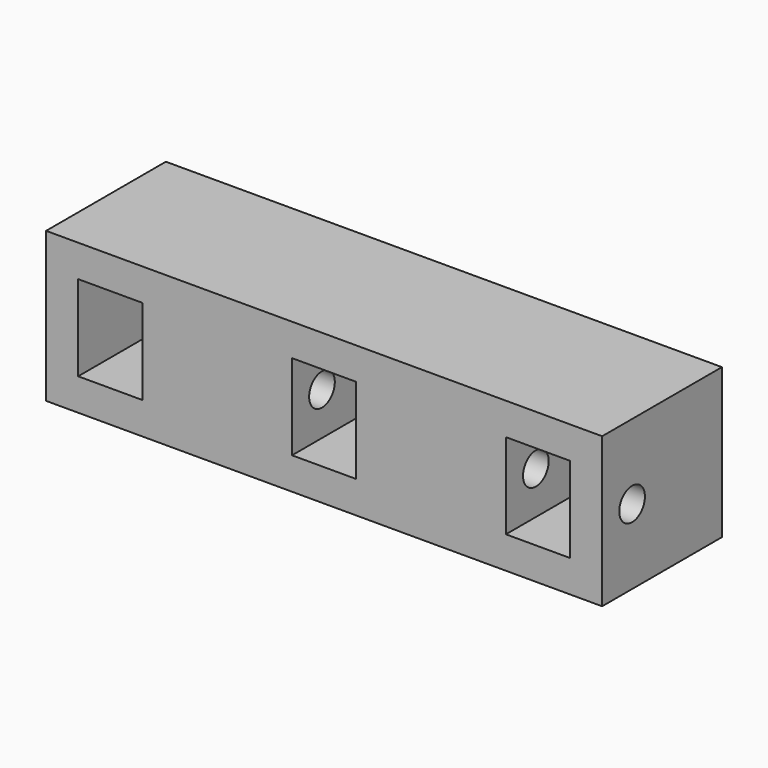
from build123d import *

# Parameters (mm, degrees)
SKETCH041_W      = 26
SKETCH041_H      = 7
EXTRUDE032_DEPTH = 7
SKETCH070_W      = 3
SKETCH070_H      = 4
POCKET012_DEPTH  = 4
SKETCH071_R      = 0.75
HOLE017_DEPTH    = 24


with BuildPart() as part:
    # Sketch041 → Extrude032 (new body)
    with BuildSketch(Plane.XY):
        with Locations((-134, -113.5)):
            Rectangle(SKETCH041_W, SKETCH041_H)
    extrude(amount=EXTRUDE032_DEPTH)

    # Sketch070 (on Face3 of BaseFeature013) → Pocket012 (cut)
    with BuildSketch(Plane.XZ.offset(117)):
        with Locations((-134.000002, 3.5)):
            Rectangle(SKETCH070_W, SKETCH070_H)
        with Locations((-144.000002, 3.5)):
            Rectangle(SKETCH070_W, SKETCH070_H)
        with Locations((-124.000002, 3.5)):
            Rectangle(SKETCH070_W, SKETCH070_H)
    extrude(amount=-POCKET012_DEPTH, mode=Mode.SUBTRACT)

    # Sketch071 (on Face3 of Pocket012) → Hole017 (cut)
    with BuildSketch(Plane.YZ.offset(-121)):
        with Locations((-115.249997, 3.5)):
            Circle(SKETCH071_R)
    extrude(amount=-HOLE017_DEPTH, mode=Mode.SUBTRACT)


solid = part.part
